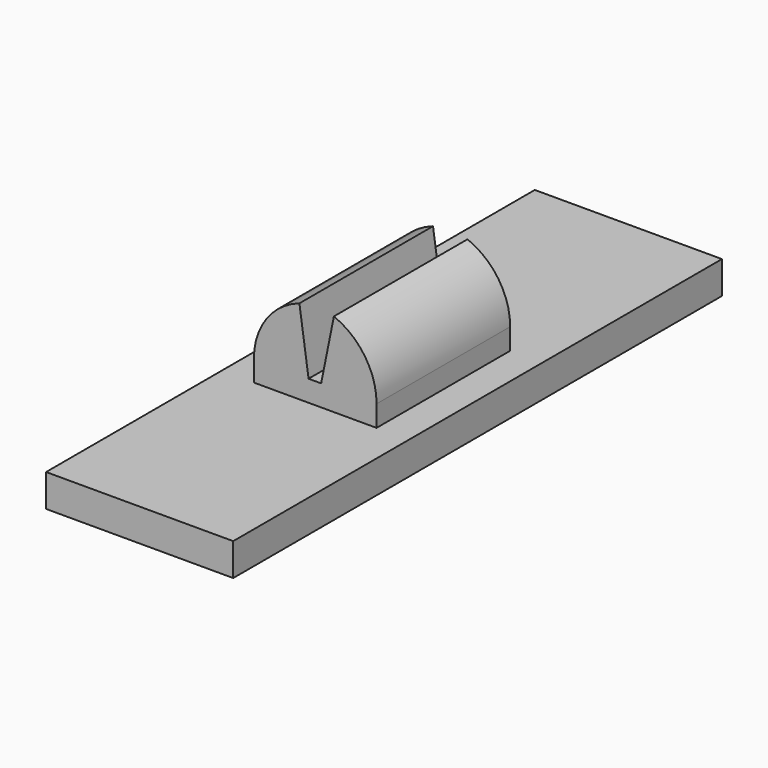
from build123d import *

# Parameters (mm, degrees)
F0_W     = 37.984425202
F0_H     = 123.9991616458
F0_W_2   = 24.9025691301
F0_H_2   = 33.8271874934
F1_DEPTH = 6.6
F2_DEPTH = 10.9
F4_DEPTH = 33.9


with BuildPart() as f1:
    # F0 (on Top) → F1 (new body)
    with BuildSketch(Plane.XY):
        with Locations((-0.5247322842, 0.4318514839)):
            Rectangle(F0_W, F0_H)
        with Locations((-0.5233194679, -0.1052441075)):
            Rectangle(F0_W_2, F0_H_2, mode=Mode.SUBTRACT)
    extrude(amount=F1_DEPTH)

    # F0 (on Top) → F2 (join)
    with BuildSketch(Plane.XY):
        with Locations((-0.5233194679, -0.1052441075)):
            Rectangle(F0_W_2, F0_H_2)
    extrude(amount=F2_DEPTH)

    # F3 (on face) → F4 (join)
    with BuildSketch(Plane.XZ.offset(17.0188378543)):
        with BuildLine():
            Line((3.2664190512, 23.7103309482), (0.6797150322, 10.9))
            Line((0.6797150322, 10.9), (11.9279650971, 10.9))
            ThreePointArc((11.9279650971, 10.9), (9.5593663419, 18.6318652166), (3.2664190512, 23.7103309482))
        make_face()
        with BuildLine():
            Line((-1.8759769267, 10.9), (-3.7359872367, 23.7637832761))
            ThreePointArc((-3.7359872367, 23.7637832761), (-10.4256426154, 18.8187903193), (-12.9746040329, 10.9))
            Line((-12.9746040329, 10.9), (-1.8759769267, 10.9))
        make_face()
    extrude(amount=-F4_DEPTH)


solid = f1.part
